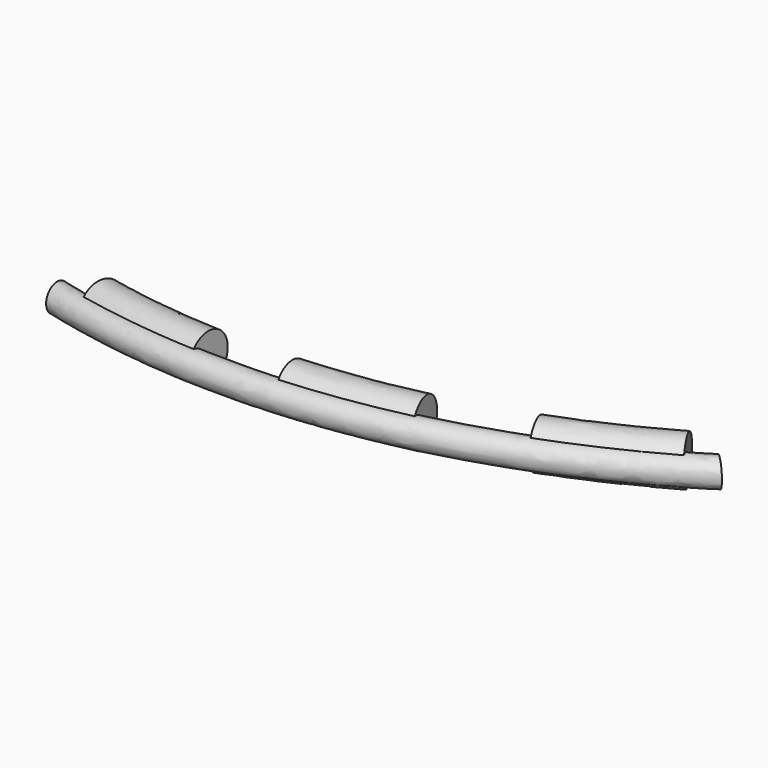
from build123d import *

# Parameters (mm, degrees)
EXTRUDE024_DEPTH = 20
SKETCH035_R      = 5
EXTRUDE023_DEPTH = 20
SKETCH033_R      = 5
EXTRUDE022_DEPTH = 20
SKETCH031_R      = 5
SKETCH030_R      = 3


with BuildPart() as extrude024:
    # Sketch039 → Extrude024 (new body)
    with BuildSketch(Plane.XY.offset(-10)):
        Polygon((-31.540116, 26.982794), (88.459884, 26.982794), (107.06062, -23.017206), (-12.93938, -23.017206), align=None)
        Polygon((113.660806, 27.4427), (203.660806, 27.4427), (228.963122, -16.971347), (138.963122, -16.971347), align=None)
    extrude(amount=EXTRUDE024_DEPTH)


with BuildPart() as motor_two:
    # Sweep007: sweep along a path in Sketch
    with BuildLine(Plane.XY) as sweep007_path:
        ThreePointArc((0, 0), (65.583227, -3.22849), (127, 20))
    # Sketch035 → Sweep007 (sweep)
    with BuildSketch(Plane(origin=(0, 0, 0), x_dir=(0, -1, 0), z_dir=(-1, 0, 0))):
        Circle(SKETCH035_R)
    sweep(path=sweep007_path.line)

    # Cut008: cut Extrude024
    add(extrude024.part, mode=Mode.SUBTRACT)


with BuildPart() as motor_two_1:
    # Cut008 placement: moved
    add(motor_two.part.moved(Location((0, 4, 0))))


with BuildPart() as extrude023:
    # Sketch038 → Extrude023 (new body)
    with BuildSketch(Plane.XY.offset(-10)):
        Polygon((-30.850737, 26.928433), (49.149263, 26.928433), (52.48953, -23.071567), (-27.51047, -23.071567), align=None)
        Polygon((69.260825, 32.2366), (159.260825, 32.2366), (170.83397, -17.551723), (80.83397, -17.551723), align=None)
    extrude(amount=EXTRUDE023_DEPTH)


with BuildPart() as motor_one:
    # Sweep006: sweep along a path in Sketch
    with BuildLine(Plane.XY) as sweep006_path:
        ThreePointArc((0, 0), (65.583227, -3.22849), (127, 20))
    # Sketch033 → Sweep006 (sweep)
    with BuildSketch(Plane(origin=(0, 0, 0), x_dir=(0, -1, 0), z_dir=(-1, 0, 0))):
        Circle(SKETCH033_R)
    sweep(path=sweep006_path.line)

    # Cut007: cut Extrude023
    add(extrude023.part, mode=Mode.SUBTRACT)


with BuildPart() as motor_one_1:
    # Cut007 placement: moved
    add(motor_one.part.moved(Location((0, 4, 0))))


with BuildPart() as extrude022:
    # Sketch037 → Extrude022 (new body)
    with BuildSketch(Plane.XY.offset(-10)):
        Polygon((-12.982745, 13.929767), (10.067577, 9.140186), (5.911817, -10.859814), (-17.138505, -6.070233), align=None)
        Polygon((35.200922, 32.2366), (147.896922, 32.2366), (145.690037, -18.831437), (32.994037, -18.831437), align=None)
    extrude(amount=EXTRUDE022_DEPTH)


with BuildPart() as motor_zero:
    # Sweep008: sweep along a path in Sketch
    with BuildLine(Plane.XY) as sweep008_path:
        ThreePointArc((0, 0), (65.583227, -3.22849), (127, 20))
    # Sketch031 → Sweep008 (sweep)
    with BuildSketch(Plane(origin=(0, 0, 0), x_dir=(0, -1, 0), z_dir=(-1, 0, 0))):
        Circle(SKETCH031_R)
    sweep(path=sweep008_path.line)

    # Cut006: cut Extrude022
    add(extrude022.part, mode=Mode.SUBTRACT)


with BuildPart() as motor_zero_1:
    # Cut006 placement: moved
    add(motor_zero.part.moved(Location((0, 4, 0))))


with BuildPart() as motor_tube_inner:
    # Sweep001: sweep along a path in Sketch
    with BuildLine(Plane.XY) as sweep001_path:
        ThreePointArc((0, 0), (65.583227, -3.22849), (127, 20))
    # Sketch030 → Sweep001 (sweep)
    with BuildSketch(Plane(origin=(0, 0, 0), x_dir=(0, -1, 0), z_dir=(-1, 0, 0))):
        Circle(SKETCH030_R)
    sweep(path=sweep001_path.line)

    # Fusion008: union Motor two, motor one, Motor zero
    add(motor_two_1.part)
    add(motor_one_1.part)
    add(motor_zero_1.part)


with BuildPart() as motor_tube_inner_1:
    # Fusion008 placement: moved
    add(motor_tube_inner.part.moved(Location((3, -2, 0))))


solid = motor_tube_inner_1.part
